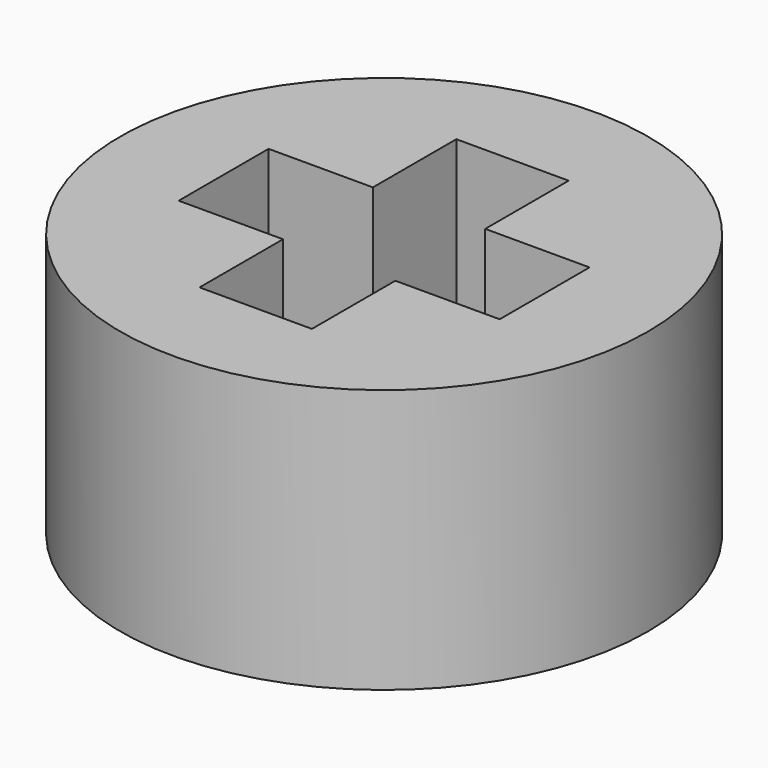
from build123d import *

# Parameters (mm, degrees)
F0_R     = 3.96875
F1_DEPTH = 3.96875


with BuildPart() as f1:
    # F0 (on Top) → F1 (new body)
    with BuildSketch(Plane.XY):
        Circle(F0_R)
        Polygon((0.84455, 0.84455), (2.413, 0.84455), (2.413, -0.84455), (0.84455, -0.84455), (0.84455, -2.413), (-0.84455, -2.413), (-0.84455, -0.84455), (-2.413, -0.84455), (-2.413, 0.84455), (-0.84455, 0.84455), (-0.84455, 2.413), (0.84455, 2.413), align=None, mode=Mode.SUBTRACT)
    extrude(amount=F1_DEPTH)


solid = f1.part
